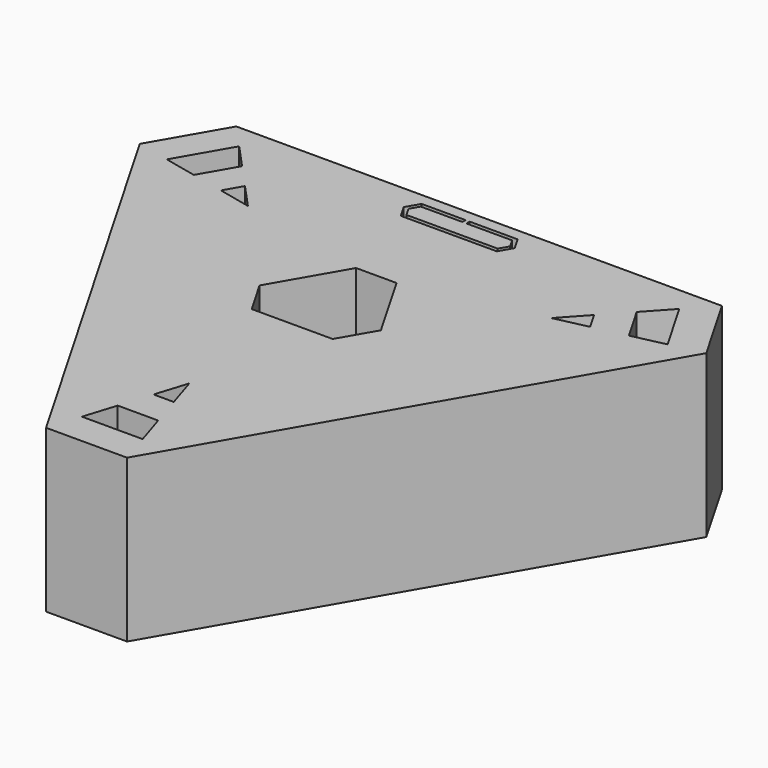
from build123d import *

# Parameters (mm, degrees)
F4_DEPTH  = 25.4
F8_DEPTH  = 25.401
F10_DEPTH = 25.401
F11_DEPTH = 25.4


with BuildPart() as f4:
    # F3 (on Top) → F4 (new body)
    with BuildSketch(Plane.XY):
        Polygon((38.1, 29.329394), (-38.1, 29.329394), (-44.45, 18.330871), (-6.35, -47.660265), (6.35, -47.660265), (44.45, 18.330871), align=None)
    extrude(amount=F4_DEPTH)

    # F7 (on Top) → F8 (cut, through all)
    with BuildSketch(Plane.XY):
        Polygon((-3.175, 9.165436), (-9.525, -1.833087), (-6.35, -7.332348), (6.35, -7.332348), (9.525, -1.833087), (3.175, 9.165436), align=None)
    extrude(amount=F8_DEPTH, mode=Mode.SUBTRACT)

    # F9 (on Top) → F10 (cut, through all)
    with BuildSketch(Plane.XY):
        Polygon((39.290625, 17.185192), (34.528125, 25.434084), (30.95625, 21.538773), (34.13125, 16.039512), align=None)
        Polygon((28.971875, 14.893833), (27.384375, 17.643463), (23.8125, 13.748153), align=None)
        Polygon((-30.95625, 21.538773), (-34.528125, 25.434084), (-39.290625, 17.185192), (-34.13125, 16.039512), align=None)
        Polygon((-27.384375, 17.643463), (-28.971875, 14.893833), (-23.8125, 13.748153), align=None)
        Polygon((0, -27.496307), (-1.5875, -32.537296), (1.5875, -32.537296), align=None)
        Polygon((3.175, -37.578286), (-3.175, -37.578286), (-4.7625, -42.619275), (4.7625, -42.619275), align=None)
        Polygon((-7.1625, 24.026792), (-7.975, 25.434084), (-7.1625, 26.841375), (-0.635, 26.841375), (-0.635, 27.476375), (-7.529117, 27.476375), (-8.708235, 25.434084), (-7.529117, 23.391792), (7.529117, 23.391792), (8.708235, 25.434084), (7.529117, 27.476375), (0, 27.476375), (0, 26.841375), (7.1625, 26.841375), (7.975, 25.434084), (7.1625, 24.026792), align=None)
        Polygon((-7.1625, 26.841375), (-7.975, 25.434084), (-7.1625, 24.026792), (7.1625, 24.026792), (7.975, 25.434084), (7.1625, 26.841375), (0, 26.841375), (0, 27.476375), (-0.635, 27.476375), (-0.635, 26.841375), align=None)
    extrude(amount=F10_DEPTH, mode=Mode.SUBTRACT)

    # F9 (on Top) → F11 (join)
    with BuildSketch(Plane.XY):
        Polygon((-7.1625, 26.841375), (-7.975, 25.434084), (-7.1625, 24.026792), (7.1625, 24.026792), (7.975, 25.434084), (7.1625, 26.841375), (0, 26.841375), (0, 27.476375), (-0.635, 27.476375), (-0.635, 26.841375), align=None)
    extrude(amount=F11_DEPTH)


solid = f4.part
